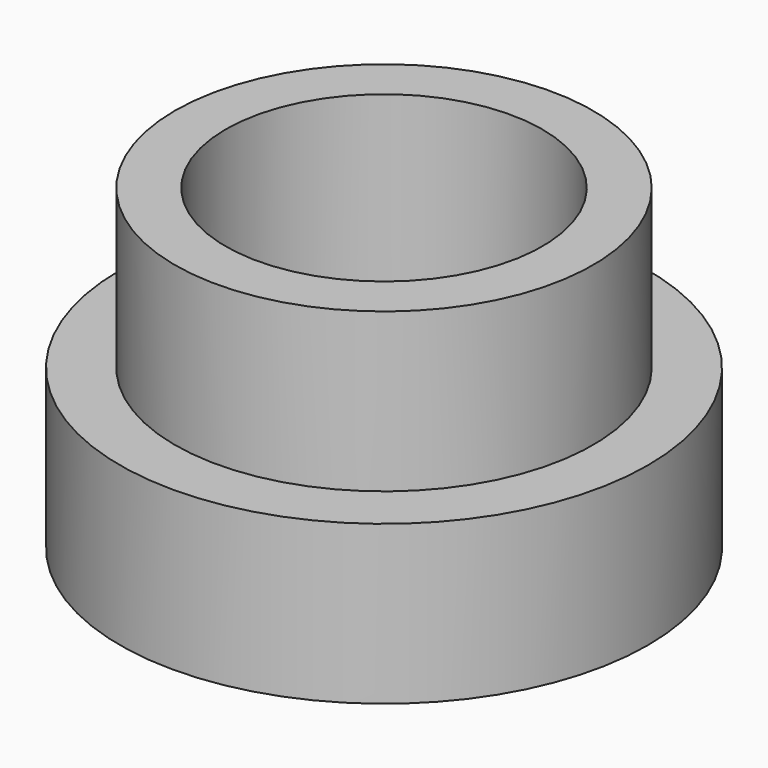
from build123d import *

# Parameters (mm, degrees)
F0_W = 4.8
F0_H = 15


with BuildPart() as f1:
    # F0 (on Front) → F1 (revolve)
    with BuildSketch(Plane.XZ):
        Polygon((-25, -15), (-15, -15), (-15, 0), (-19.8, 0), (-25, 0), align=None)
        with Locations((-17.4, 7.5)):
            Rectangle(F0_W, F0_H)
    revolve(axis=Axis((0, 0, -4.356846), (0, 0, -1)))


solid = f1.part
